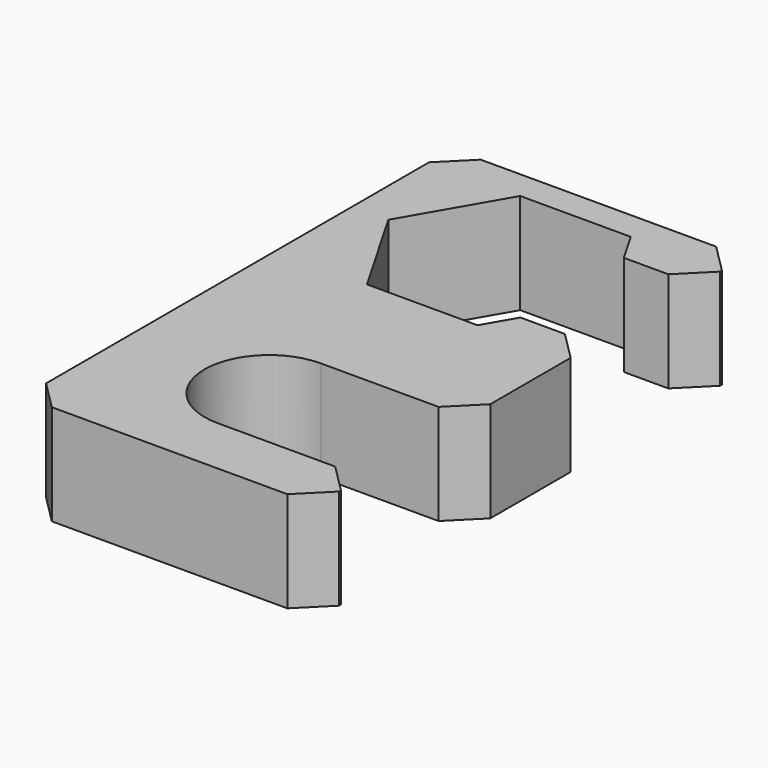
from build123d import *

# Parameters (mm, degrees)
SKETCH_W     = 20.4
SKETCH_H     = 37.336792
PAD_DEPTH    = 7
POCKET_DEPTH = 7
CHAMFER_SIZE = 2


with BuildPart() as part:
    # Sketch → Pad (new body)
    with BuildSketch(Plane.XY):
        Rectangle(SKETCH_W, SKETCH_H)
        Polygon((3.85, 3.331604), (7.7, 10), (3.85, 16.668396), (-3.85, 16.668396), (-7.7, 10), (-3.85, 3.331604), align=None, mode=Mode.SUBTRACT)
    extrude(amount=PAD_DEPTH)

    # Sketch001 → Pocket (cut)
    with BuildSketch(Plane.XY.offset(7)):
        with BuildLine():
            Line((0, 14.5), (14, 14.5))
            Line((14, 14.5), (14, 5.5))
            Line((14, 5.5), (0, 5.5))
            ThreePointArc((0, 14.5), (-4.5, 10), (0, 5.5))
        make_face()
    pocket = extrude(amount=-POCKET_DEPTH, mode=Mode.SUBTRACT)

    # Mirrored: Pocket across Sketch001 H_Axis
    add(pocket.mirror(Plane(origin=(0, 0, 7), x_dir=(0, 0, 1), z_dir=(0, 1, 0))), mode=Mode.SUBTRACT)

    # Chamfer
    chamfer_edges = [part.edges().sort_by_distance(p)[0] for p in [
        (10.2, 18.668396, 3.5),
        (10.2, 14.5, 3.5),
        (10.2, 5.5, 3.5),
        (10.2, -5.5, 3.5),
        (10.2, -14.5, 3.5),
        (10.2, -18.668396, 3.5),
        (-10.2, -18.668396, 3.5),
        (-10.2, 18.668396, 3.5),
    ]]
    chamfer(chamfer_edges, length=CHAMFER_SIZE)


solid = part.part
